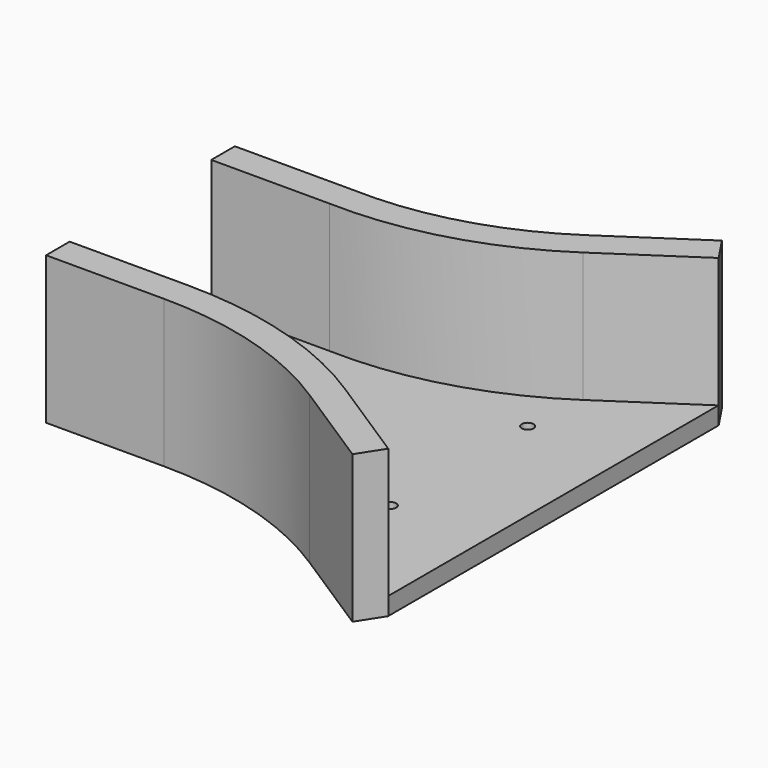
from build123d import *

# Parameters (mm, degrees)
F1_DEPTH = 25
F3_DEPTH = 3
F4_R     = 1
F5_DEPTH = 3


with BuildPart() as f1:
    # F0 (on Top) → F1 (new body)
    with BuildSketch(Plane.XY):
        with BuildLine():
            Line((0, 20), (0, 15))
            Line((0, 15), (20, 15))
            ThreePointArc((20, 15), (38.2805059355, 17.2682292257), (55, 25))
            Line((55, 25), (70, 35))
            Line((70, 35), (67.2264990189, 39.1602514717))
            Line((67.2264990189, 39.1602514717), (52.2264990189, 29.1602514717))
            ThreePointArc((52.2264990189, 29.1602514717), (36.8313987252, 22.0536192236), (20, 20))
            Line((20, 20), (0, 20))
        make_face()
    extrude(amount=F1_DEPTH)



with BuildPart() as f1b:
    # F0 (on Top) → F1, piece 2 (new body)
    with BuildSketch(Plane.XY):
        with BuildLine():
            Line((20, -15), (0, -15))
            Line((0, -15), (0, -20))
            Line((0, -20), (20, -20))
            ThreePointArc((20, -20), (36.8307254493, -22.4287692466), (52.2881087807, -29.516895921))
            Line((52.2881087807, -29.516895921), (67.2881087807, -39.2006720908))
            Line((67.2881087807, -39.2006720908), (70, -35))
            Line((70, -35), (55, -25.3162238302))
            ThreePointArc((55, -25.3162238302), (38.2443448369, -17.6327625507), (20, -15))
        make_face()
    extrude(amount=F1_DEPTH)


with BuildPart() as f1_1:
    add(f1.part)

    add(f1b.part)  # F3 merges F1b
    # F2 (on Top) → F3 (join)
    with BuildSketch(Plane.XY):
        Polygon((31.2723219395, 17.9464295506), (0, 17.5446420908), (0, -17.1428583562), (26.3169649988, -17.1428583562), (39.7098250687, -20.0892854482), (53.7723265588, -27.187500149), (69.9766278267, -34.9970981479), (69.9766278267, 34.9736848865), (58.1919662654, 30.1339291036), (44.7991117835, 22.7678567171), align=None)
    extrude(amount=F3_DEPTH)

    # F4 (on face) → F5 (cut)
    with BuildSketch(Plane.XY.offset(3)):
        with Locations((15.3143024072, 0)):
            Circle(F4_R)
        with Locations((53.9886541665, 14.5440837368)):
            Circle(F4_R)
        with Locations((53.9886541665, -14.5440837368)):
            Circle(F4_R)
    extrude(amount=-F5_DEPTH, mode=Mode.SUBTRACT)


solid = f1_1.part
